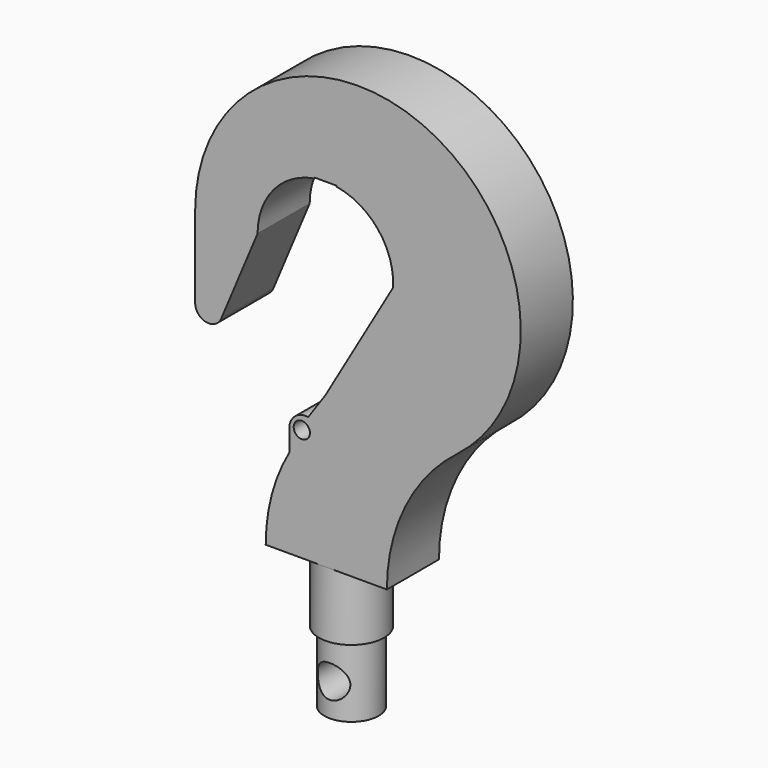
from build123d import *

# Parameters (mm, degrees)
F3_DEPTH = 60
F4_R     = 30
F5_DEPTH = 112
F6_R     = 15
F7_DEPTH = 163


with BuildPart() as f2:
    # F1 (on Front) → F2 (revolve)
    with BuildSketch(Plane.XZ):
        Polygon((-50, -120), (-50, -250), (0, -250), (0, 0), (-60, 0), (-60, -120), align=None)
    revolve(axis=Axis((0, 0, -125), (0, 0, -1)))

    # F0 (on Front) → F3 (join, symmetric)
    with BuildSketch(Plane.XZ):
        with BuildLine():
            ThreePointArc((113.275358, 0), (147.343032, 146.027594), (242.512075, 261.904762))
            ThreePointArc((242.512075, 261.904762), (192.752359, 769.029387), (-240, 500))
            Line((-240, 500), (-125, 500))
            ThreePointArc((-125, 500), (-95.197164, 581.009259), (-20, 623.389627))
            Line((-20, 623.389627), (-20, 624.947867))
            Line((-20, 624.947867), (20, 624.947867))
            Line((20, 624.947867), (20, 623.389627))
            ThreePointArc((20, 623.389627), (97.236318, 578.549974), (124.836727, 493.613169))
            Line((124.836727, 493.613169), (0, 278.411619))
            Line((0, 278.411619), (-31.669397, 232.573897))
            ThreePointArc((-31.669397, 232.573897), (-58.197727, 223.86417), (-66.061109, 197.072774))
            Line((-66.061109, 197.072774), (-66.061109, 164.52672))
            ThreePointArc((-66.061109, 164.52672), (-98.826102, 85.146444), (-110, 0))
            Line((-110, 0), (113.275358, 0))
        make_face()
        with BuildLine():
            Line((-125, 500), (-240, 500))
            Line((-240, 500), (-240, 350))
            ThreePointArc((-240, 350), (-219.930134, 325.490945), (-191.944498, 340.333365))
            Line((-191.944498, 340.333365), (-125, 500))
        make_face()
    extrude(amount=F3_DEPTH, both=True)

    # F4 (on Front) → F5 (cut, symmetric)
    with BuildSketch(Plane.XZ):
        with Locations((0, -190)):
            Circle(F4_R)
    extrude(amount=F5_DEPTH, both=True, mode=Mode.SUBTRACT)

    # F6 (on face) → F7 (cut, symmetric)
    with BuildSketch(Plane.XZ.offset(60)):
        with Locations((-43.483209, 207.776994)):
            Circle(F6_R)
        with Locations((-43.483209, 207.776994)):
            Circle(F6_R)
    extrude(amount=F7_DEPTH, both=True, mode=Mode.SUBTRACT)


solid = f2.part
